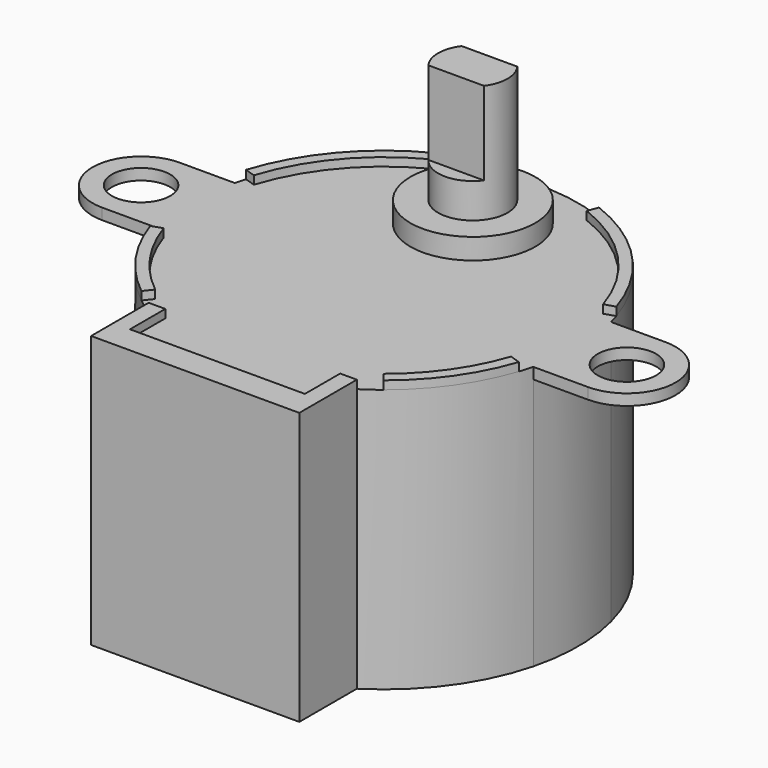
from build123d import *

# Parameters (mm, degrees)
F0_R      = 4.5
F0_R_2    = 2.5
F1_DEPTH  = 19
F0_R_3    = 2.1
F2_DEPTH  = 0.8
F3_DEPTH  = 1.5
F4_DEPTH  = 10
F6_DEPTH  = 6
F9_DEPTH  = 0.6
F10_ANGLE = 180


with BuildPart() as f1:
    # F0 (on Top) → F1 (new body)
    with BuildSketch(Plane.XY):
        with BuildLine():
            Line((7.5, -17), (7.5, -11.8215904175))
            ThreePointArc((7.5, -11.8215904175), (11.3201202815, -8.2374071656), (13.5554417117, -3.5))
            ThreePointArc((13.5554417117, -3.5), (14, 0), (13.5554417117, 3.5))
            ThreePointArc((13.5554417117, 3.5), (0, 14), (-13.5554417117, 3.5))
            ThreePointArc((-13.5554417117, 3.5), (-14, 0), (-13.5554417117, -3.5))
            ThreePointArc((-13.5554417117, -3.5), (-11.3201202815, -8.2374071656), (-7.5, -11.8215904175))
            Line((-7.5, -11.8215904175), (-7.5, -17))
            Line((-7.5, -17), (7.5, -17))
        make_face()
        with Locations((0, 8)):
            Circle(F0_R, mode=Mode.SUBTRACT)
        with Locations((0, 8)):
            Circle(F0_R)
        with Locations((0, 8)):
            Circle(F0_R_2, mode=Mode.SUBTRACT)
        with Locations((0, 8)):
            Circle(F0_R_2)
    extrude(amount=F1_DEPTH)

    # F0 (on Top) → F2 (join)
    with BuildSketch(Plane.XY):
        with BuildLine():
            ThreePointArc((-13.5554417117, -3.5), (-14, 0), (-13.5554417117, 3.5))
            Line((-13.5554417117, 3.5), (-17.5, 3.5))
            ThreePointArc((-17.5, 3.5), (-21, 0), (-17.5, -3.5))
            Line((-17.5, -3.5), (-13.5554417117, -3.5))
        make_face()
        with Locations((-17.5, 0)):
            Circle(F0_R_3, mode=Mode.SUBTRACT)
        with BuildLine():
            ThreePointArc((13.5554417117, 3.5), (14, 0), (13.5554417117, -3.5))
            Line((13.5554417117, -3.5), (17.5, -3.5))
            ThreePointArc((17.5, -3.5), (21, 0), (17.5, 3.5))
            Line((17.5, 3.5), (13.5554417117, 3.5))
        make_face()
        with Locations((17.5, 0)):
            Circle(F0_R_3, mode=Mode.SUBTRACT)
    extrude(amount=F2_DEPTH)

    # F0 (on Top) → F3 (join)
    with BuildSketch(Plane.XY):
        with Locations((0, 8)):
            Circle(F0_R)
        with Locations((0, 8)):
            Circle(F0_R_2, mode=Mode.SUBTRACT)
    extrude(amount=-F3_DEPTH)

    # F8 (on face) → F9 (join)
    with BuildSketch(Plane.XY):
        with BuildLine():
            ThreePointArc((-8.2152354611, -10.3319846263), (-10.8087895783, -7.5769431733), (-12.5142179885, -4.1993271051))
            Line((-12.5142179885, -4.1993271051), (-13.2726554424, -4.4538317781))
            ThreePointArc((-13.2726554424, -4.4538317781), (-11.4638677346, -8.0361518505), (-8.7131285193, -10.9581655128))
            Line((-8.7131285193, -10.9581655128), (-8.2152354611, -10.3319846263))
        make_face()
        with BuildLine():
            Line((-13.34018285, 4.2472957902), (-12.5778866871, 4.0045931736))
            ThreePointArc((-12.5778866871, 4.0045931736), (-9.6088969941, 9.0503645538), (-4.7497434776, 12.3158408928))
            Line((-4.7497434776, 12.3158408928), (-5.0376067187, 13.0622554924))
            ThreePointArc((-5.0376067187, 13.0622554924), (-10.1912543877, 9.5988714964), (-13.34018285, 4.2472957902))
        make_face()
        with BuildLine():
            Line((5.0376067187, 13.0622554924), (4.7497434776, 12.3158408928))
            ThreePointArc((4.7497434776, 12.3158408928), (9.6088969941, 9.0503645538), (12.5778866871, 4.0045931736))
            Line((12.5778866871, 4.0045931736), (13.34018285, 4.2472957902))
            ThreePointArc((13.34018285, 4.2472957902), (10.1912543877, 9.5988714964), (5.0376067187, 13.0622554924))
        make_face()
        with BuildLine():
            Line((8.2152354611, -10.3319846263), (8.7131285193, -10.9581655128))
            ThreePointArc((8.7131285193, -10.9581655128), (11.4638677346, -8.0361518505), (13.2726554424, -4.4538317781))
            Line((13.2726554424, -4.4538317781), (12.5142179885, -4.1993271051))
            ThreePointArc((12.5142179885, -4.1993271051), (10.8087895783, -7.5769431733), (8.2152354611, -10.3319846263))
        make_face()
        Polygon((6.3, -15), (-6.3, -15), (-6.3, -11.8215904175), (-7.5, -11.8215904175), (-7.5, -17), (7.5, -17), (7.5, -11.8215904175), (6.3, -11.8215904175), align=None)
    extrude(amount=-F9_DEPTH)


with BuildPart() as f4:
    # F0 (on Top) → F4 (new body)
    with BuildSketch(Plane.XY):
        with Locations((0, 8)):
            Circle(F0_R_2)
    extrude(amount=-F4_DEPTH)


with BuildPart() as f6:
    # F5 (on face) → F6 (new body)
    with BuildSketch(Plane(origin=(0, 0, -10), x_dir=(1, 0, 0), z_dir=(0, 0, -1))):
        with BuildLine():
            Line((2, -6.5), (2.9143868635, -6.5))
            Line((2.9143868635, -6.5), (2.9143868635, -5.0171855837))
            Line((2.9143868635, -5.0171855837), (-2.9143868635, -5.0171855837))
            Line((-2.9143868635, -5.0171855837), (-2.9143868635, -6.5))
            Line((-2.9143868635, -6.5), (-2, -6.5))
            ThreePointArc((-2, -6.5), (0, -5.5), (2, -6.5))
        make_face()
        with BuildLine():
            Line((-2, -6.5), (2, -6.5))
            ThreePointArc((2, -6.5), (0, -5.5), (-2, -6.5))
        make_face()
    extrude(amount=-F6_DEPTH)


with BuildPart() as f6b:
    # F5 (on face) → F6, piece 2 (new body)
    with BuildSketch(Plane(origin=(0, 0, -10), x_dir=(1, 0, 0), z_dir=(0, 0, -1))):
        with BuildLine():
            ThreePointArc((-2, -9.5), (0, -10.5), (2, -9.5))
            Line((2, -9.5), (-2, -9.5))
        make_face()
        with BuildLine():
            Line((2.9143868635, -10.8300484717), (2.9143868635, -9.5))
            Line((2.9143868635, -9.5), (2, -9.5))
            ThreePointArc((2, -9.5), (0, -10.5), (-2, -9.5))
            Line((-2, -9.5), (-2.9143868635, -9.5))
            Line((-2.9143868635, -9.5), (-2.9143868635, -10.8300484717))
            Line((-2.9143868635, -10.8300484717), (2.9143868635, -10.8300484717))
        make_face()
    extrude(amount=-F6_DEPTH)


with BuildPart() as f4_1:
    add(f4.part)

    # F7: cut F6, F6b
    add(f6.part, mode=Mode.SUBTRACT)
    add(f6b.part, mode=Mode.SUBTRACT)


with BuildPart() as f1_1:
    # F10: moved
    add(f1.part.rotate(Axis((7.5, -14.4107952088, -0.6), (0, -1, 0)), F10_ANGLE))


with BuildPart() as f4_2:
    # F10: moved
    add(f4_1.part.rotate(Axis((7.5, -14.4107952088, -0.6), (0, -1, 0)), F10_ANGLE))


solid = Compound([f1_1.part, f4_2.part])
